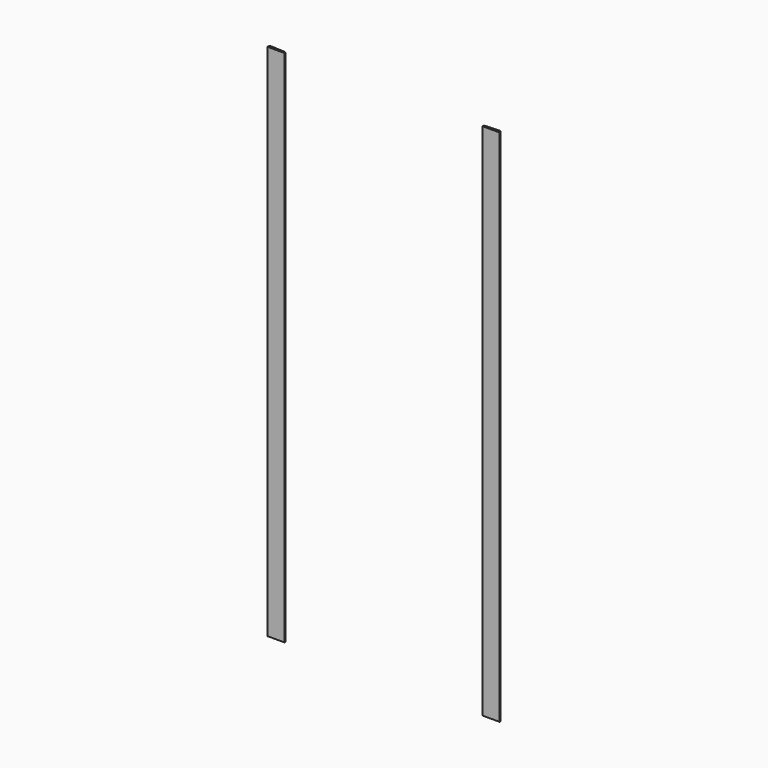
from build123d import *

# Parameters (mm, degrees)
SKETCH278_W         = 1600
SKETCH278_H         = 400
EXTRUDE039512_DEPTH = 500


with BuildPart() as extrude039512:
    # Sketch278 (on Sketch) → Extrude039512 (new body, symmetric)
    with BuildSketch(Plane.XZ):
        with Locations((0, 2300)):
            Rectangle(SKETCH278_W, SKETCH278_H)
        with Locations((0, -200)):
            Rectangle(SKETCH278_W, SKETCH278_H)
    extrude(amount=EXTRUDE039512_DEPTH, both=True)


with BuildPart() as trim_two_parts_internal:
    # Sweep012: sweep along a path in Sketch195
    with BuildLine(Plane.XZ) as sweep012_path:
        Line((-400, 2100), (-400, 0))
        Line((-400, 0), (400, 0))
        Line((400, 0), (400, 2100))
        Line((400, 2100), (-400, 2100))
    # Clone2D028 (on Sketch) → Sweep012 (sweep)
    with BuildSketch(Plane.ZY):
        with BuildLine():
            Line((-61.571224, 10), (-5.678418, 7))
            ThreePointArc((-5.678418, 7), (-1.645147, 5.136003), (0, 1.008624))
            Line((0, 1.008624), (0, 0))
            Line((0, 0), (-70, 0))
            Line((-70, 0), (-70, 2.011499))
            ThreePointArc((-70, 2.011499), (-67.503171, 7.81797), (-61.571224, 10))
        make_face()
    sweep(path=sweep012_path.line, is_frenet=True, transition=Transition.RIGHT)

    # Cut078: cut Extrude039512
    add(extrude039512.part, mode=Mode.SUBTRACT)


solid = trim_two_parts_internal.part
